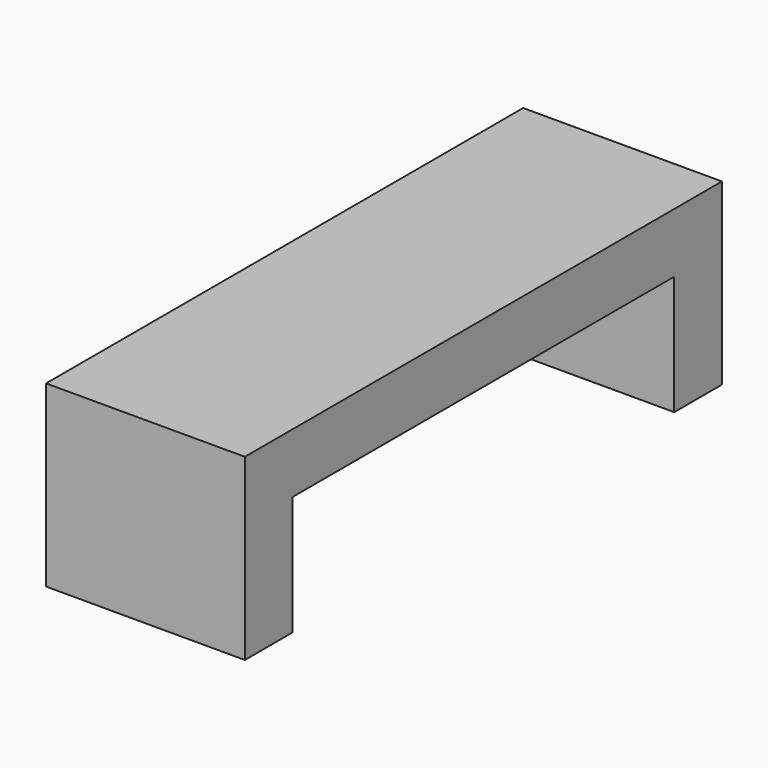
from build123d import *

# Parameters (mm, degrees)
F0_W     = 12
F0_H     = 3
F1_DEPTH = 10


with BuildPart() as f1:
    # F0 (on Right) → F1 (new body)
    with BuildSketch(Plane.YZ):
        Polygon((-15, 9), (-15, 0), (-12, 0), (-12, 6), (-12, 9), align=None)
        with Locations((-6, 7.5)):
            Rectangle(F0_W, F0_H)
        with Locations((6, 7.5)):
            Rectangle(F0_W, F0_H)
        Polygon((12, 9), (12, 6), (12, 0), (15, 0), (15, 9), align=None)
    extrude(amount=F1_DEPTH)


solid = f1.part
